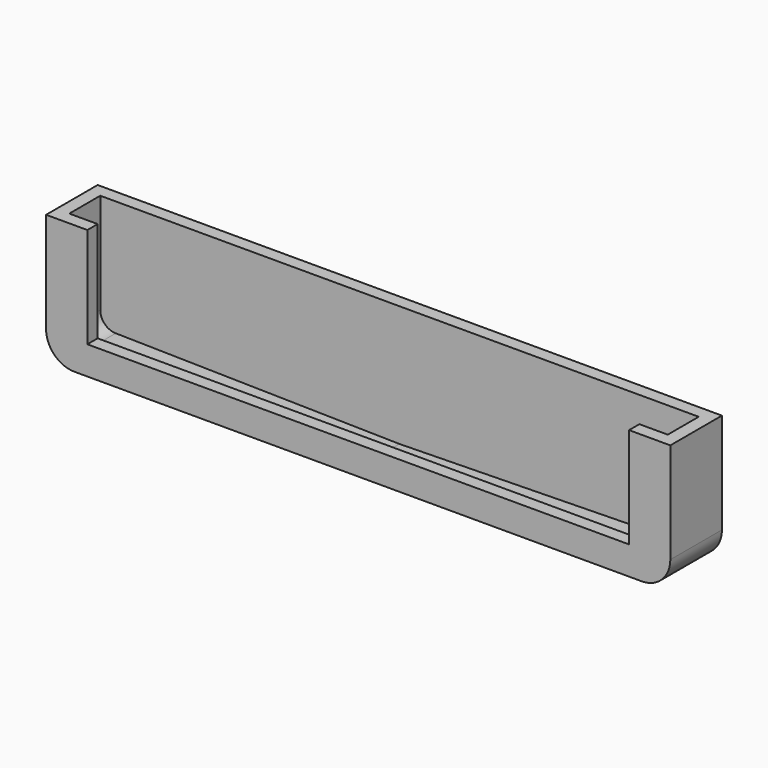
from build123d import *

# Parameters (mm, degrees)
F0_W     = 210
F0_H     = 39
F0_H_2   = 5
F1_DEPTH = 5
F2_DEPTH = 20
F3_DEPTH = 15
F5_D     = 3.3
F5_DEPTH = 5
F5_TIP   = 0.9914200214


with BuildPart() as f1:
    # F0 (on Front) → F1 (new body)
    with BuildSketch(Plane.XZ):
        with BuildLine():
            Line((121, -33.5), (116, -33.5))
            Line((116, -33.5), (116, -72.5))
            ThreePointArc((116, -72.5), (114.2426406871, -76.7426406871), (110, -78.5))
            Line((110, -78.5), (0, -80.5))
            Line((0, -80.5), (-110, -78.5))
            ThreePointArc((-110, -78.5), (-114.2426406871, -76.7426406871), (-116, -72.5))
            Line((-116, -72.5), (-116, -33.5))
            Line((-116, -33.5), (-121, -33.5))
            Line((-121, -33.5), (-121, -72.5))
            ThreePointArc((-121, -72.5), (-117.7781745931, -80.2781745931), (-110, -83.5))
            Line((-110, -83.5), (110, -83.5))
            ThreePointArc((110, -83.5), (117.7781745931, -80.2781745931), (121, -72.5))
            Line((121, -72.5), (121, -33.5))
        make_face()
        with BuildLine():
            Line((116, -33.5), (115, -33.5))
            Line((115, -33.5), (115, -72.5))
            ThreePointArc((115, -72.5), (113.5355339059, -76.0355339059), (110, -77.5))
            Line((110, -77.5), (105, -77.5))
            Line((105, -77.5), (-105, -77.5))
            Line((-105, -77.5), (-110, -77.5))
            ThreePointArc((-110, -77.5), (-113.5355339059, -76.0355339059), (-115, -72.5))
            Line((-115, -72.5), (-115, -33.5))
            Line((-115, -33.5), (-116, -33.5))
            Line((-116, -33.5), (-116, -72.5))
            ThreePointArc((-116, -72.5), (-114.2426406871, -76.7426406871), (-110, -78.5))
            Line((-110, -78.5), (110, -78.5))
            ThreePointArc((110, -78.5), (114.2426406871, -76.7426406871), (116, -72.5))
            Line((116, -72.5), (116, -33.5))
        make_face()
        with BuildLine():
            Line((-105, -33.5), (-115, -33.5))
            Line((-115, -33.5), (-115, -72.5))
            ThreePointArc((-115, -72.5), (-113.5355339059, -76.0355339059), (-110, -77.5))
            Line((-110, -77.5), (-105, -77.5))
            Line((-105, -77.5), (-105, -72.5))
            Line((-105, -72.5), (-105, -33.5))
        make_face()
        with BuildLine():
            Line((115, -72.5), (115, -33.5))
            Line((115, -33.5), (105, -33.5))
            Line((105, -33.5), (105, -72.5))
            Line((105, -72.5), (105, -77.5))
            Line((105, -77.5), (110, -77.5))
            ThreePointArc((110, -77.5), (113.5355339059, -76.0355339059), (115, -72.5))
        make_face()
        with Locations((0, -53)):
            Rectangle(F0_W, F0_H)
        with Locations((0, -75)):
            Rectangle(F0_W, F0_H_2)
        Polygon((0, -80.5), (110, -78.5), (-110, -78.5), align=None)
    extrude(amount=-F1_DEPTH)

    # F0 (on Front) → F2 (join)
    with BuildSketch(Plane.XZ):
        with BuildLine():
            Line((121, -33.5), (116, -33.5))
            Line((116, -33.5), (116, -72.5))
            ThreePointArc((116, -72.5), (114.2426406871, -76.7426406871), (110, -78.5))
            Line((110, -78.5), (0, -80.5))
            Line((0, -80.5), (-110, -78.5))
            ThreePointArc((-110, -78.5), (-114.2426406871, -76.7426406871), (-116, -72.5))
            Line((-116, -72.5), (-116, -33.5))
            Line((-116, -33.5), (-121, -33.5))
            Line((-121, -33.5), (-121, -72.5))
            ThreePointArc((-121, -72.5), (-117.7781745931, -80.2781745931), (-110, -83.5))
            Line((-110, -83.5), (110, -83.5))
            ThreePointArc((110, -83.5), (117.7781745931, -80.2781745931), (121, -72.5))
            Line((121, -72.5), (121, -33.5))
        make_face()
        with BuildLine():
            Line((116, -33.5), (115, -33.5))
            Line((115, -33.5), (115, -72.5))
            ThreePointArc((115, -72.5), (113.5355339059, -76.0355339059), (110, -77.5))
            Line((110, -77.5), (105, -77.5))
            Line((105, -77.5), (-105, -77.5))
            Line((-105, -77.5), (-110, -77.5))
            ThreePointArc((-110, -77.5), (-113.5355339059, -76.0355339059), (-115, -72.5))
            Line((-115, -72.5), (-115, -33.5))
            Line((-115, -33.5), (-116, -33.5))
            Line((-116, -33.5), (-116, -72.5))
            ThreePointArc((-116, -72.5), (-114.2426406871, -76.7426406871), (-110, -78.5))
            Line((-110, -78.5), (110, -78.5))
            ThreePointArc((110, -78.5), (114.2426406871, -76.7426406871), (116, -72.5))
            Line((116, -72.5), (116, -33.5))
        make_face()
        with BuildLine():
            Line((-105, -33.5), (-115, -33.5))
            Line((-115, -33.5), (-115, -72.5))
            ThreePointArc((-115, -72.5), (-113.5355339059, -76.0355339059), (-110, -77.5))
            Line((-110, -77.5), (-105, -77.5))
            Line((-105, -77.5), (-105, -72.5))
            Line((-105, -72.5), (-105, -33.5))
        make_face()
        with BuildLine():
            Line((115, -72.5), (115, -33.5))
            Line((115, -33.5), (105, -33.5))
            Line((105, -33.5), (105, -72.5))
            Line((105, -72.5), (105, -77.5))
            Line((105, -77.5), (110, -77.5))
            ThreePointArc((110, -77.5), (113.5355339059, -76.0355339059), (115, -72.5))
        make_face()
        Polygon((0, -80.5), (110, -78.5), (-110, -78.5), align=None)
        with Locations((0, -75)):
            Rectangle(F0_W, F0_H_2)
    extrude(amount=F2_DEPTH)

    # F0 (on Front) → F3 (cut)
    with BuildSketch(Plane.XZ):
        with BuildLine():
            Line((-105, -33.5), (-115, -33.5))
            Line((-115, -33.5), (-115, -72.5))
            ThreePointArc((-115, -72.5), (-113.5355339059, -76.0355339059), (-110, -77.5))
            Line((-110, -77.5), (-105, -77.5))
            Line((-105, -77.5), (-105, -72.5))
            Line((-105, -72.5), (-105, -33.5))
        make_face()
        with BuildLine():
            Line((116, -33.5), (115, -33.5))
            Line((115, -33.5), (115, -72.5))
            ThreePointArc((115, -72.5), (113.5355339059, -76.0355339059), (110, -77.5))
            Line((110, -77.5), (105, -77.5))
            Line((105, -77.5), (-105, -77.5))
            Line((-105, -77.5), (-110, -77.5))
            ThreePointArc((-110, -77.5), (-113.5355339059, -76.0355339059), (-115, -72.5))
            Line((-115, -72.5), (-115, -33.5))
            Line((-115, -33.5), (-116, -33.5))
            Line((-116, -33.5), (-116, -72.5))
            ThreePointArc((-116, -72.5), (-114.2426406871, -76.7426406871), (-110, -78.5))
            Line((-110, -78.5), (110, -78.5))
            ThreePointArc((110, -78.5), (114.2426406871, -76.7426406871), (116, -72.5))
            Line((116, -72.5), (116, -33.5))
        make_face()
        with BuildLine():
            Line((115, -72.5), (115, -33.5))
            Line((115, -33.5), (105, -33.5))
            Line((105, -33.5), (105, -72.5))
            Line((105, -72.5), (105, -77.5))
            Line((105, -77.5), (110, -77.5))
            ThreePointArc((110, -77.5), (113.5355339059, -76.0355339059), (115, -72.5))
        make_face()
        Polygon((0, -80.5), (110, -78.5), (-110, -78.5), align=None)
        with Locations((0, -75)):
            Rectangle(F0_W, F0_H_2)
    extrude(amount=F3_DEPTH, mode=Mode.SUBTRACT)

    # F5
    with Locations(Plane(origin=(0, 0, -83.5), x_dir=(1, 0, 0), z_dir=(0, 0, -1))):
        with Locations((0, 7.5)):
            Hole(F5_D / 2, depth=F5_DEPTH)
            with Locations((0, 0, -(F5_DEPTH + F5_TIP / 2))):  # 118° drill point
                Cone(0, F5_D / 2, F5_TIP, mode=Mode.SUBTRACT)


solid = f1.part
